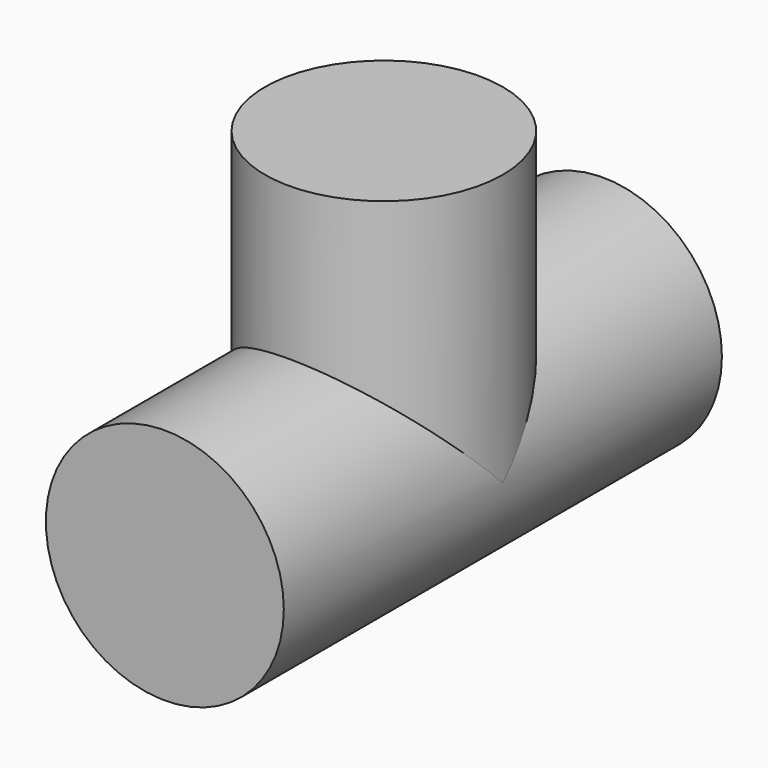
from build123d import *

# Parameters (mm, degrees)
CYLINDER007_R     = 13.9827
CYLINDER007_DEPTH = 64.36
CYLINDER006_R     = 13.9827
CYLINDER006_DEPTH = 31.877


with BuildPart() as cylinder007:
    # Cylinder007 → Cylinder007 (new body)
    with BuildSketch(Plane.XZ.offset(-32.1818)):
        Circle(CYLINDER007_R)
    extrude(amount=CYLINDER007_DEPTH)


with BuildPart() as t:
    # Cylinder006 → Cylinder006 (new body)
    with BuildSketch(Plane.XY):
        Circle(CYLINDER006_R)
    extrude(amount=CYLINDER006_DEPTH)

    # Fusion002: union Cylinder007
    add(cylinder007.part)


solid = t.part
